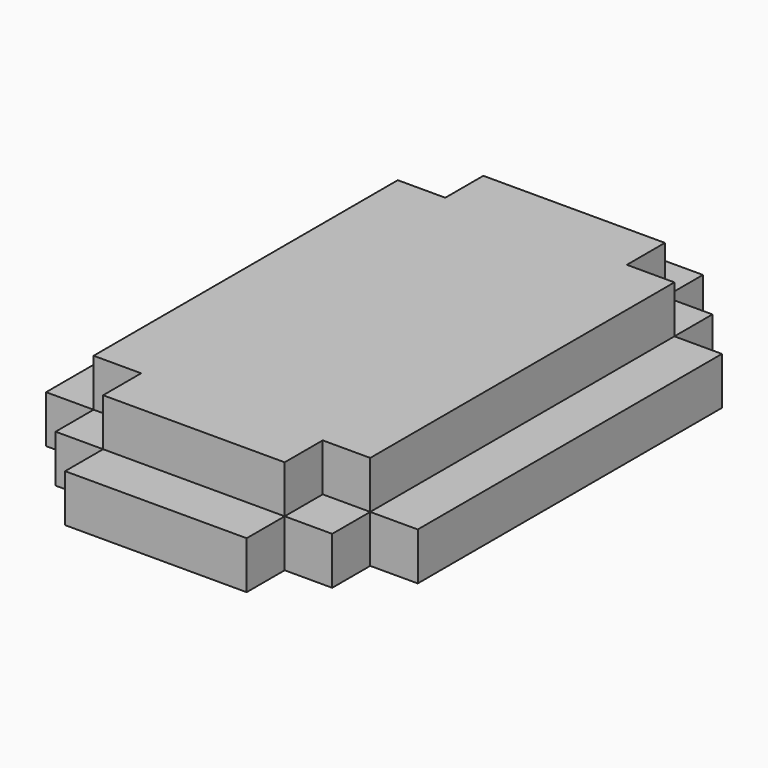
from build123d import *

# Parameters (mm, degrees)
F1_DEPTH = 6.35
F3_DEPTH = 6.35


with BuildPart() as f1:
    # F0 (on Top) → F1 (new body)
    with BuildSketch(Plane.XY):
        Polygon((11.083248, 37.27174), (-13.177601, 37.27174), (-13.177601, 30.92174), (-19.527601, 30.92174), (-19.527601, 24.57174), (-25.877601, 24.57174), (-25.877601, -26.22826), (-19.527601, -26.22826), (-19.527601, -32.57826), (-13.177601, -32.57826), (-13.177601, -38.92826), (11.083248, -38.92826), (11.083248, -32.57826), (17.433248, -32.57826), (17.433248, -26.22826), (23.783248, -26.22826), (23.783248, 24.57174), (17.433248, 24.57174), (17.433248, 30.92174), (11.083248, 30.92174), align=None)
    extrude(amount=F1_DEPTH)

    # F2 (on face) → F3 (join)
    with BuildSketch(Plane.XY.offset(6.35)):
        Polygon((11.083248, 30.92174), (-13.177601, 30.92174), (-13.177601, 24.57174), (-19.527601, 24.57174), (-19.527601, -26.22826), (-13.177601, -26.22826), (-13.177601, -32.57826), (11.083248, -32.57826), (11.083248, -26.22826), (17.433248, -26.22826), (17.433248, 24.57174), (11.083248, 24.57174), align=None)
    extrude(amount=F3_DEPTH)


solid = f1.part
